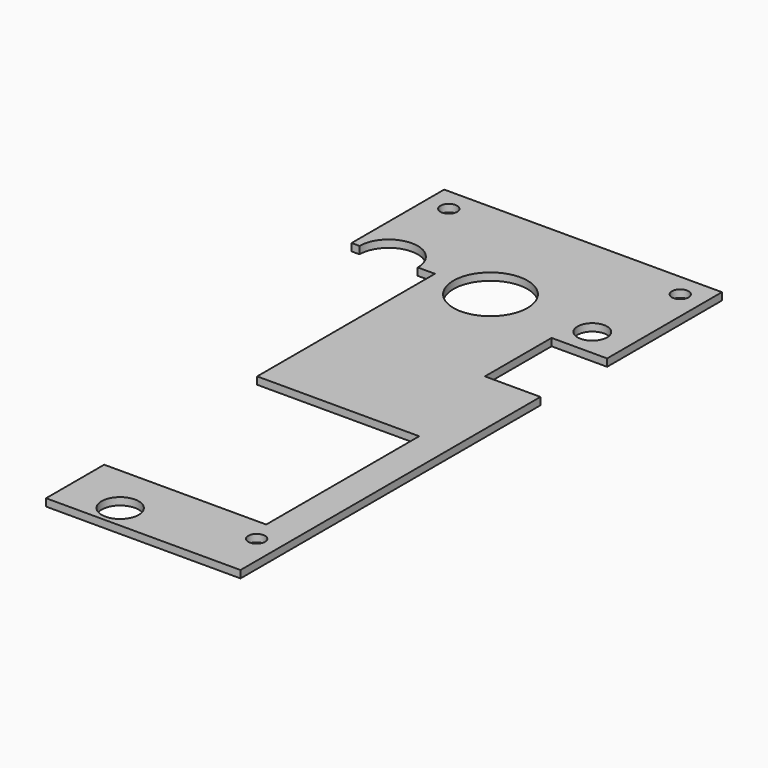
from build123d import *

# Parameters (mm, degrees)
SKETCH_R   = 8
SKETCH_R_2 = 3.2
SKETCH_R_3 = 4
SKETCH_R_4 = 1.8
PAD_DEPTH  = 1.6


with BuildPart() as part:
    # Sketch → Pad (new body)
    with BuildSketch(Plane.XY):
        with BuildLine():
            ThreePointArc((-15.710509, 39.895164), (-22, 46.184654), (-28.289491, 39.895164))
            Line((-28.289491, 39.895164), (-30, 39.895164))
            Line((-30, 39.895164), (-30, 64.895162))
            Line((-30, 64.895162), (30, 64.895162))
            Line((30, 33.895162), (30, 64.895162))
            Line((30, 33.895162), (18, 33.895162))
            Line((18, 33.895162), (18, 15.895162))
            Line((18, 15.895162), (30, 15.895162))
            Line((30, 15.895162), (30, -65.104838))
            Line((30, -65.104838), (-12, -65.104838))
            Line((-12, -49.414836), (-12, -65.104838))
            Line((23, -49.414836), (-12, -49.414836))
            Line((23, -8.104836), (23, -49.414836))
            Line((3.490575, -8.104836), (23, -8.104836))
            Line((-3.490575, -8.104836), (3.490575, -8.104836))
            Line((-12, -8.104836), (-3.490575, -8.104836))
            Line((-12, 39.895164), (-12, -8.104836))
            Line((-15.710509, 39.895164), (-12, 39.895164))
        make_face()
        with Locations((0, 39.895164)):
            Circle(SKETCH_R, mode=Mode.SUBTRACT)
        with Locations((22, 39.895164)):
            Circle(SKETCH_R_2, mode=Mode.SUBTRACT)
        with Locations((0, -60.104838)):
            Circle(SKETCH_R_3, mode=Mode.SUBTRACT)
        with Locations((25, -54.494838)):
            Circle(SKETCH_R_4, mode=Mode.SUBTRACT)
        with Locations((25, 59.895164)):
            Circle(SKETCH_R_4, mode=Mode.SUBTRACT)
        with Locations((-25, 59.895162)):
            Circle(SKETCH_R_4, mode=Mode.SUBTRACT)
    extrude(amount=PAD_DEPTH)


solid = part.part
